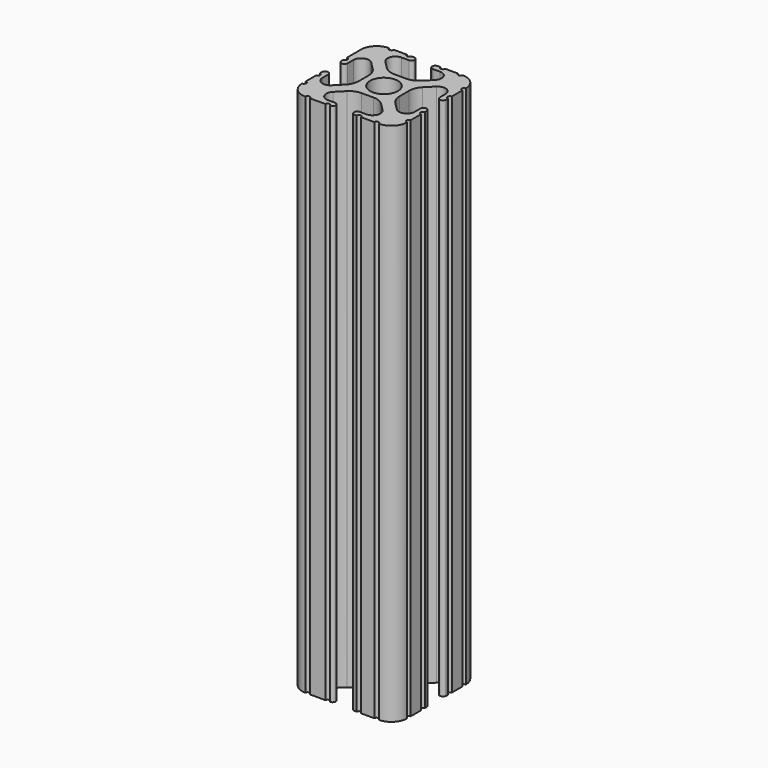
from build123d import *

# Parameters (mm, degrees)
F0_R     = 3.362501
F1_DEPTH = 127


with BuildPart() as f1:
    # F0 (on Top) → F1 (new body)
    with BuildSketch(Plane.XY):
        with BuildLine():
            ThreePointArc((-8.548576, 18.755238), (-9.784629, 17.929334), (-11.242653, 17.639315))
            Line((-11.242653, 17.639315), (-14.157347, 17.639315))
            ThreePointArc((-14.157347, 17.639315), (-15.615371, 17.929334), (-16.851424, 18.755238))
            Line((-16.851424, 18.755238), (-18.696905, 20.600719))
            ThreePointArc((-18.696905, 20.600719), (-19.109857, 22.67677), (-17.349867, 23.852758))
            Line((-17.349867, 23.852758), (-15.615371, 23.852758))
            Line((-15.615371, 23.852758), (-15.58302, 23.852758))
            ThreePointArc((-15.58302, 23.852758), (-14.825405, 24.626379), (-15.58302, 25.4))
            Line((-15.58302, 25.4), (-15.615371, 25.4))
            Line((-15.615371, 25.4), (-16.253341, 25.4))
            ThreePointArc((-16.253341, 25.4), (-16.801604, 24.858772), (-17.349867, 25.4))
            Line((-17.349867, 25.4), (-20.487482, 25.4))
            ThreePointArc((-20.487482, 25.4), (-21.038741, 24.848741), (-21.59, 25.4))
            ThreePointArc((-21.59, 25.4), (-24.284077, 24.284077), (-25.4, 21.59))
            Line((-25.4, 21.59), (-25.4, 20.504724))
            Line((-25.4, 20.504724), (-25.4, 17.349867))
            ThreePointArc((-25.4, 17.349867), (-24.844161, 16.802675), (-25.4, 16.255483))
            Line((-25.4, 16.255483), (-25.4, 15.615371))
            ThreePointArc((-25.4, 15.615371), (-24.626379, 14.859554), (-23.852758, 15.615371))
            Line((-23.852758, 15.615371), (-23.852758, 17.349867))
            ThreePointArc((-23.852758, 17.349867), (-22.67677, 19.109857), (-20.600719, 18.696905))
            Line((-20.600719, 18.696905), (-18.755238, 16.851424))
            ThreePointArc((-18.755238, 16.851424), (-17.929334, 15.615371), (-17.639315, 14.157347))
            Line((-17.639315, 14.157347), (-17.639315, 11.242653))
            ThreePointArc((-17.639315, 11.242653), (-17.929334, 9.784629), (-18.755238, 8.548576))
            Line((-18.755238, 8.548576), (-20.600719, 6.703095))
            ThreePointArc((-20.600719, 6.703095), (-22.67677, 6.290143), (-23.852758, 8.050133))
            Line((-23.852758, 8.050133), (-23.852758, 9.784629))
            ThreePointArc((-23.852758, 9.784629), (-24.626379, 10.55825), (-25.4, 9.784629))
            Line((-25.4, 9.784629), (-25.4, 9.149239))
            ThreePointArc((-25.4, 9.149239), (-24.899374, 8.599686), (-25.4, 8.050133))
            Line((-25.4, 8.050133), (-25.4, 4.904538))
            ThreePointArc((-25.4, 4.904538), (-24.846216, 4.357269), (-25.4, 3.81))
            ThreePointArc((-25.4, 3.81), (-24.284077, 1.115923), (-21.59, 0))
            ThreePointArc((-21.59, 0), (-21.040817, 0.554885), (-20.491634, 0))
            Line((-20.491634, 0), (-16.708169, 0))
            ThreePointArc((-16.708169, 0), (-16.16177, 0.540135), (-15.615371, 0))
            ThreePointArc((-15.615371, 0), (-14.854184, 0.7747), (-15.615371, 1.5494))
            Line((-15.615371, 1.5494), (-17.347709, 1.5494))
            ThreePointArc((-17.347709, 1.5494), (-19.107699, 2.725388), (-18.694747, 4.801438))
            Line((-18.694747, 4.801438), (-16.851424, 6.644762))
            ThreePointArc((-16.851424, 6.644762), (-15.615371, 7.470666), (-14.157347, 7.760685))
            Line((-14.157347, 7.760685), (-11.242653, 7.760685))
            ThreePointArc((-11.242653, 7.760685), (-9.784629, 7.470666), (-8.548576, 6.644762))
            Line((-8.548576, 6.644762), (-6.705253, 4.801438))
            ThreePointArc((-6.705253, 4.801438), (-6.292301, 2.725388), (-8.052291, 1.5494))
            Line((-8.052291, 1.5494), (-9.784629, 1.5494))
            ThreePointArc((-9.784629, 1.5494), (-10.401836, 0.7747), (-9.784629, 0))
            Line((-9.784629, 0), (-9.152868, 0))
            ThreePointArc((-9.152868, 0), (-8.602579, 0.545262), (-8.052291, 0))
            Line((-8.052291, 0), (-4.898866, 0))
            ThreePointArc((-4.898866, 0), (-4.354433, 0.544433), (-3.81, 0))
            ThreePointArc((-3.81, 0), (-1.115923, 1.115923), (0, 3.81))
            ThreePointArc((0, 3.81), (-0.53938, 4.3561), (0, 4.9022))
            Line((0, 4.9022), (0, 8.052291))
            ThreePointArc((0, 8.052291), (-0.543517, 8.60166), (0, 9.151029))
            Line((0, 9.151029), (0, 9.784629))
            ThreePointArc((0, 9.784629), (-0.7747, 10.504691), (-1.5494, 9.784629))
            Line((-1.5494, 9.784629), (-1.5494, 8.052291))
            ThreePointArc((-1.5494, 8.052291), (-2.725388, 6.292301), (-4.801438, 6.705253))
            Line((-4.801438, 6.705253), (-6.644762, 8.548576))
            ThreePointArc((-6.644762, 8.548576), (-7.470666, 9.784629), (-7.760685, 11.242653))
            Line((-7.760685, 11.242653), (-7.760685, 14.157347))
            ThreePointArc((-7.760685, 14.157347), (-7.470666, 15.615371), (-6.644762, 16.851424))
            Line((-6.644762, 16.851424), (-4.801438, 18.694747))
            ThreePointArc((-4.801438, 18.694747), (-2.725388, 19.107699), (-1.5494, 17.347709))
            Line((-1.5494, 17.347709), (-1.5494, 15.615371))
            ThreePointArc((-1.5494, 15.615371), (-0.7747, 14.879405), (0, 15.615371))
            Line((0, 15.615371), (0, 16.255509))
            ThreePointArc((0, 16.255509), (-0.5461, 16.801609), (0, 17.347709))
            Line((0, 17.347709), (0, 20.495165))
            ThreePointArc((0, 20.495165), (-0.551056, 21.042583), (0, 21.59))
            ThreePointArc((0, 21.59), (-1.115923, 24.284077), (-3.81, 25.4))
            ThreePointArc((-3.81, 25.4), (-4.365303, 24.903619), (-4.920606, 25.4))
            Line((-4.920606, 25.4), (-8.050133, 25.4))
            ThreePointArc((-8.050133, 25.4), (-8.596365, 24.859433), (-9.142596, 25.4))
            Line((-9.142596, 25.4), (-9.784629, 25.4))
            Line((-9.784629, 25.4), (-9.856203, 25.4))
            ThreePointArc((-9.856203, 25.4), (-10.594864, 24.626379), (-9.856203, 23.852758))
            Line((-9.856203, 23.852758), (-9.784629, 23.852758))
            Line((-9.784629, 23.852758), (-8.050133, 23.852758))
            ThreePointArc((-8.050133, 23.852758), (-6.290143, 22.67677), (-6.703095, 20.600719))
            Line((-6.703095, 20.600719), (-8.548576, 18.755238))
        make_face()
        with Locations((-12.7, 12.7)):
            Circle(F0_R, mode=Mode.SUBTRACT)
        with BuildLine():
            ThreePointArc((-9.856203, 23.852758), (-9.820416, 23.851931), (-9.784629, 23.852758))
            Line((-9.784629, 23.852758), (-9.856203, 23.852758))
        make_face()
        with BuildLine():
            Line((-15.58302, 23.852758), (-15.615371, 23.852758))
            ThreePointArc((-15.615371, 23.852758), (-15.599195, 23.852589), (-15.58302, 23.852758))
        make_face()
        with BuildLine():
            ThreePointArc((-9.784629, 25.4), (-9.820416, 25.400827), (-9.856203, 25.4))
            Line((-9.856203, 25.4), (-9.784629, 25.4))
        make_face()
        with BuildLine():
            Line((-15.615371, 25.4), (-15.58302, 25.4))
            ThreePointArc((-15.58302, 25.4), (-15.599195, 25.400169), (-15.615371, 25.4))
        make_face()
    extrude(amount=F1_DEPTH)


solid = f1.part
